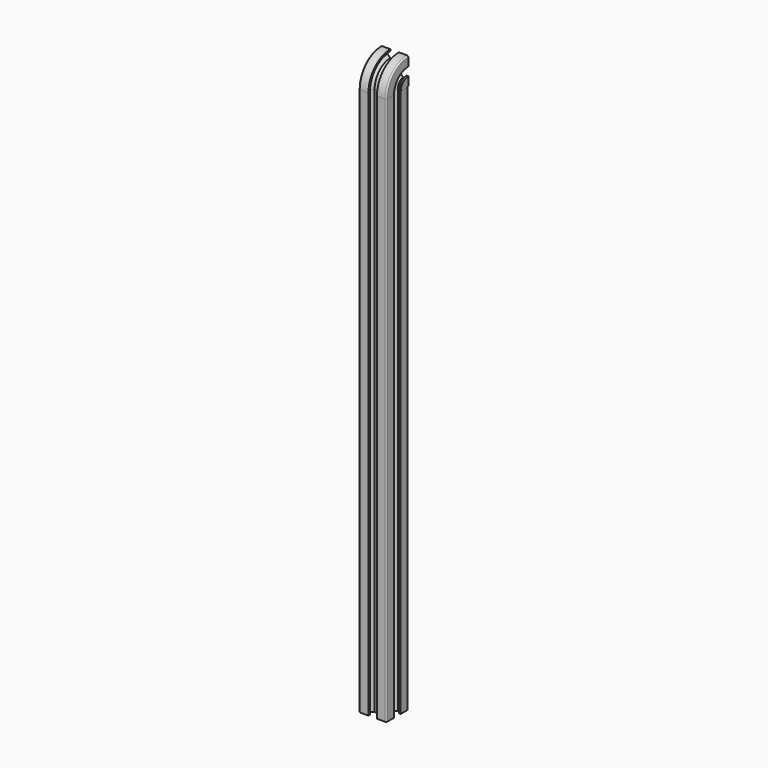
from build123d import *

# Parameters (mm, degrees)
F1_DEPTH = 400
F3_ANGLE = 90


with BuildPart() as f1:
    # F0 (on Top) → F1 (new body)
    with BuildSketch(Plane.XY):
        with BuildLine():
            Line((5.65, 13.1), (5.65, 6.9))
            Line((5.65, 6.9), (3.65, 4.9))
            Line((3.65, 4.9), (1.3, 4.9))
            Line((1.3, 4.9), (1.3, 6.9))
            Line((1.3, 6.9), (0, 6.9))
            Line((0, 6.9), (0, 1))
            ThreePointArc((0, 1), (0.292893, 0.292893), (1, 0))
            Line((1, 0), (6.9, 0))
            Line((6.9, 0), (6.9, 1.3))
            Line((6.9, 1.3), (4.9, 1.3))
            Line((4.9, 1.3), (4.9, 3.65))
            Line((4.9, 3.65), (6.9, 5.65))
            Line((6.9, 5.65), (13.1, 5.65))
            Line((13.1, 5.65), (15.1, 3.65))
            Line((15.1, 3.65), (15.1, 1.3))
            Line((15.1, 1.3), (13.1, 1.3))
            Line((13.1, 1.3), (13.1, 0))
            Line((13.1, 0), (19, 0))
            ThreePointArc((19, 0), (19.707107, 0.292893), (20, 1))
            Line((20, 1), (20, 6.9))
            Line((20, 6.9), (18.7, 6.9))
            Line((18.7, 6.9), (18.7, 4.9))
            Line((18.7, 4.9), (16.35, 4.9))
            Line((16.35, 4.9), (14.35, 6.9))
            Line((14.35, 6.9), (14.35, 13.1))
            Line((14.35, 13.1), (16.35, 15.1))
            Line((16.35, 15.1), (18.7, 15.1))
            Line((18.7, 15.1), (18.7, 13.1))
            Line((18.7, 13.1), (20, 13.1))
            Line((20, 13.1), (20, 19))
            ThreePointArc((20, 19), (19.707107, 19.707107), (19, 20))
            Line((19, 20), (13.1, 20))
            Line((13.1, 20), (13.1, 18.7))
            Line((13.1, 18.7), (15.1, 18.7))
            Line((15.1, 18.7), (15.1, 16.35))
            Line((15.1, 16.35), (13.1, 14.35))
            Line((13.1, 14.35), (6.9, 14.35))
            Line((6.9, 14.35), (4.9, 16.35))
            Line((4.9, 16.35), (4.9, 18.7))
            Line((4.9, 18.7), (6.9, 18.7))
            Line((6.9, 18.7), (6.9, 20))
            Line((6.9, 20), (1, 20))
            ThreePointArc((1, 20), (0.292893, 19.707107), (0, 19))
            Line((0, 19), (0, 13.1))
            Line((0, 13.1), (1.3, 13.1))
            Line((1.3, 13.1), (1.3, 15.1))
            Line((1.3, 15.1), (3.65, 15.1))
            Line((3.65, 15.1), (5.65, 13.1))
        make_face()
    extrude(amount=F1_DEPTH)


with BuildPart() as f3:
    # F2 (on face) → F3 (revolve)
    with BuildSketch(Plane.XY.offset(400)):
        with BuildLine():
            Line((20, 13.1), (20, 19))
            ThreePointArc((20, 19), (19.707107, 19.707107), (19, 20))
            Line((19, 20), (13.1, 20))
            Line((13.1, 20), (13.1, 18.7))
            Line((13.1, 18.7), (15.1, 18.7))
            Line((15.1, 18.7), (15.1, 16.35))
            Line((15.1, 16.35), (13.1, 14.35))
            Line((13.1, 14.35), (6.9, 14.35))
            Line((6.9, 14.35), (4.9, 16.35))
            Line((4.9, 16.35), (4.9, 18.7))
            Line((4.9, 18.7), (6.9, 18.7))
            Line((6.9, 18.7), (6.9, 20))
            Line((6.9, 20), (1, 20))
            ThreePointArc((1, 20), (0.292893, 19.707107), (0, 19))
            Line((0, 19), (0, 13.1))
            Line((0, 13.1), (1.3, 13.1))
            Line((1.3, 13.1), (1.3, 15.1))
            Line((1.3, 15.1), (3.65, 15.1))
            Line((3.65, 15.1), (5.65, 13.1))
            Line((5.65, 13.1), (5.65, 6.9))
            Line((5.65, 6.9), (3.65, 4.9))
            Line((3.65, 4.9), (1.3, 4.9))
            Line((1.3, 4.9), (1.3, 6.9))
            Line((1.3, 6.9), (0, 6.9))
            Line((0, 6.9), (0, 1))
            ThreePointArc((0, 1), (0.292893, 0.292893), (1, 0))
            Line((1, 0), (6.9, 0))
            Line((6.9, 0), (6.9, 1.3))
            Line((6.9, 1.3), (4.9, 1.3))
            Line((4.9, 1.3), (4.9, 3.65))
            Line((4.9, 3.65), (6.9, 5.65))
            Line((6.9, 5.65), (13.1, 5.65))
            Line((13.1, 5.65), (15.1, 3.65))
            Line((15.1, 3.65), (15.1, 1.3))
            Line((15.1, 1.3), (13.1, 1.3))
            Line((13.1, 1.3), (13.1, 0))
            Line((13.1, 0), (19, 0))
            ThreePointArc((19, 0), (19.707107, 0.292893), (20, 1))
            Line((20, 1), (20, 6.9))
            Line((20, 6.9), (18.7, 6.9))
            Line((18.7, 6.9), (18.7, 4.9))
            Line((18.7, 4.9), (16.35, 4.9))
            Line((16.35, 4.9), (14.35, 6.9))
            Line((14.35, 6.9), (14.35, 13.1))
            Line((14.35, 13.1), (16.35, 15.1))
            Line((16.35, 15.1), (18.7, 15.1))
            Line((18.7, 15.1), (18.7, 13.1))
            Line((18.7, 13.1), (20, 13.1))
        make_face()
    revolve(axis=Axis((16.05, 20, 400), (-1, 0, 0)), revolution_arc=F3_ANGLE)


solid = Compound([f1.part, f3.part])
